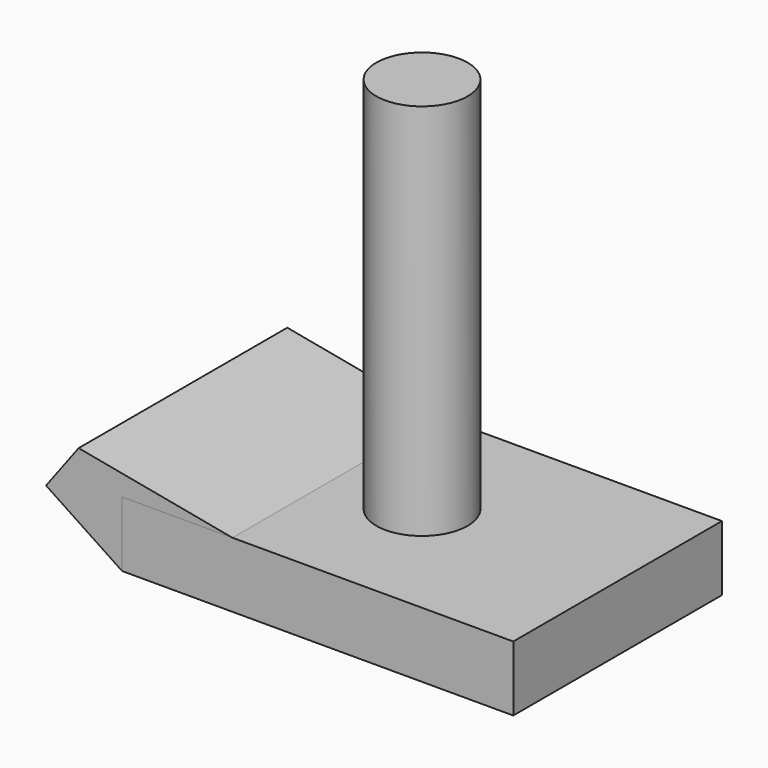
from build123d import *

# Parameters (mm, degrees)
F0_R     = 1.75
F1_DEPTH = 17
F0_W     = 15
F0_H     = 10
F2_DEPTH = 2.5
F4_DEPTH = 10


with BuildPart() as f1:
    # F0 (on Top) → F1 (new body)
    with BuildSketch(Plane.XY):
        Circle(F0_R)
    extrude(amount=F1_DEPTH)

    # F0 (on Top) → F2 (join)
    with BuildSketch(Plane.XY):
        Rectangle(F0_W, F0_H)
        Circle(F0_R, mode=Mode.SUBTRACT)
    extrude(amount=F2_DEPTH)


with BuildPart() as f4:
    # F3 (on face) → F4 (new body)
    with BuildSketch(Plane.XZ.offset(5)):
        Polygon((-10.413474, 1.939502), (-7.5, 0), (-7.5, 2.5), (-9.164842, 3.608287), align=None)
        Polygon((-9.164842, 3.608287), (-7.5, 2.5), (-3.268089, 2.5), align=None)
    extrude(amount=-F4_DEPTH)


solid = Compound([f1.part, f4.part])
